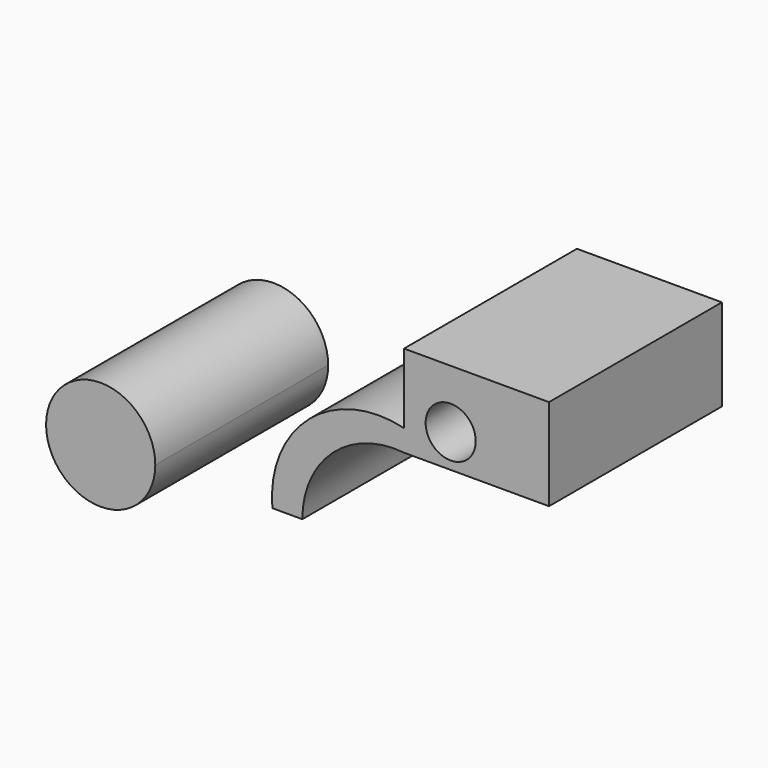
from build123d import *

# Parameters (mm, degrees)
F1_DEPTH = 25
F0_R     = 2.89809729


with BuildPart() as f1:
    # F0 (on Front) → F1 (new body)
    with BuildSketch(Plane.XZ):
        with BuildLine():
            ThreePointArc((13.6403647707, 15.133109875), (7.3255822062, 21.4478924395), (1.0107996418, 15.133109875))
            Line((1.0107996418, 15.133109875), (13.6403647707, 15.133109875))
        make_face()
        with BuildLine():
            Line((13.6403647707, 15.133109875), (1.0107996418, 15.133109875))
            ThreePointArc((1.0107996418, 15.133109875), (7.3255822062, 8.8183273105), (13.6403647707, 15.133109875))
        make_face()
    extrude(amount=F1_DEPTH)


with BuildPart() as f1b:
    # F0 (on Front) → F1, piece 2 (new body)
    with BuildSketch(Plane.XZ):
        with BuildLine():
            Line((27.1817650646, 15.133109875), (30.6517761201, 15.133109875))
            ThreePointArc((30.6517761201, 15.133109875), (34.1733463019, 23.0499467395), (42.4112640321, 25.7359240204))
            Line((42.4112640321, 25.7359240204), (42.4112640321, 28.2420460135))
            ThreePointArc((42.4112640321, 28.2420460135), (31.4346777756, 25.5932411589), (27.1817650646, 15.133109875))
        make_face()
        Polygon((42.4112640321, 28.2420460135), (42.4112640321, 25.7359240204), (59.1829903424, 25.7359240204), (59.1829903424, 36.3387428224), (42.4112640321, 36.3387428224), align=None)
        with Locations((47.8090569377, 29.5914951712)):
            Circle(F0_R, mode=Mode.SUBTRACT)
    extrude(amount=F1_DEPTH)


solid = Compound([f1.part, f1b.part])
